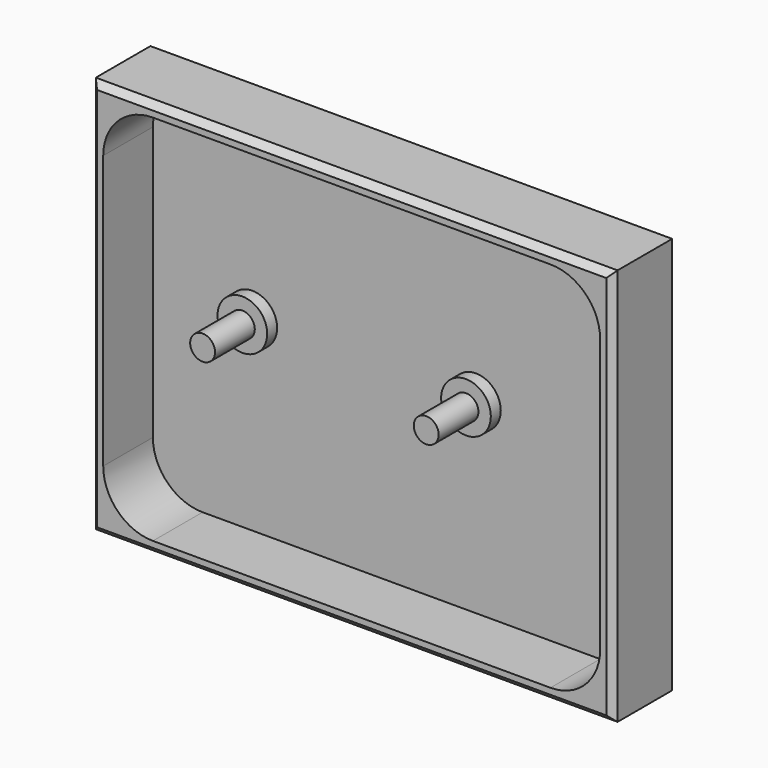
from build123d import *

# Parameters (mm, degrees)
F0_W     = 133.35
F0_H     = 101.6
F1_DEPTH = 19.05
F2_T     = -3.175
F3_R     = 6.35
F4_DEPTH = 3.175
F5_R     = 3.175
F6_DEPTH = 12.7
F7_R     = 3.175
F8_DEPTH = 12.7
F9_R     = 12.7
F10_SIZE = 1.6002


with BuildPart() as f1:
    # F0 (on Front) → F1 (new body)
    with BuildSketch(Plane.XZ):
        with Locations((66.675, 50.8)):
            Rectangle(F0_W, F0_H)
    extrude(amount=F1_DEPTH)

    # F2
    f2_openings = [f1.faces().sort_by_distance(p)[0] for p in [
        (66.675, -19.05, 50.8),
    ]]
    offset(amount=F2_T, openings=f2_openings)

    # F3 (on face) → F4 (join)
    with BuildSketch(Plane.XZ.offset(3.175)):
        with Locations((28.575, 50.8)):
            Circle(F3_R)
        with Locations((85.725, 50.8)):
            Circle(F3_R)
    extrude(amount=F4_DEPTH)

    # F5 (on face) → F6 (join)
    with BuildSketch(Plane.XZ.offset(6.35)):
        with Locations((28.575, 50.8)):
            Circle(F5_R)
    extrude(amount=F6_DEPTH)

    # F7 (on face) → F8 (join)
    with BuildSketch(Plane.XZ.offset(6.35)):
        with Locations((85.725, 50.8)):
            Circle(F7_R)
    extrude(amount=F8_DEPTH)

    # F9
    f9_edges = [f1.edges().sort_by_distance(p)[0] for p in [
        (3.175, -11.1125, 98.425),
        (3.175, -11.1125, 3.175),
        (130.175, -11.1125, 3.175),
        (130.175, -11.1125, 98.425),
    ]]
    fillet(f9_edges, radius=F9_R)

    # F10
    f10_edges = [f1.edges().sort_by_distance(p)[0] for p in [
        (0, -19.05, 50.8),
        (66.675, -19.05, 101.6),
        (133.35, -19.05, 50.8),
        (66.675, -19.05, 0),
    ]]
    chamfer(f10_edges, length=F10_SIZE)


solid = f1.part
